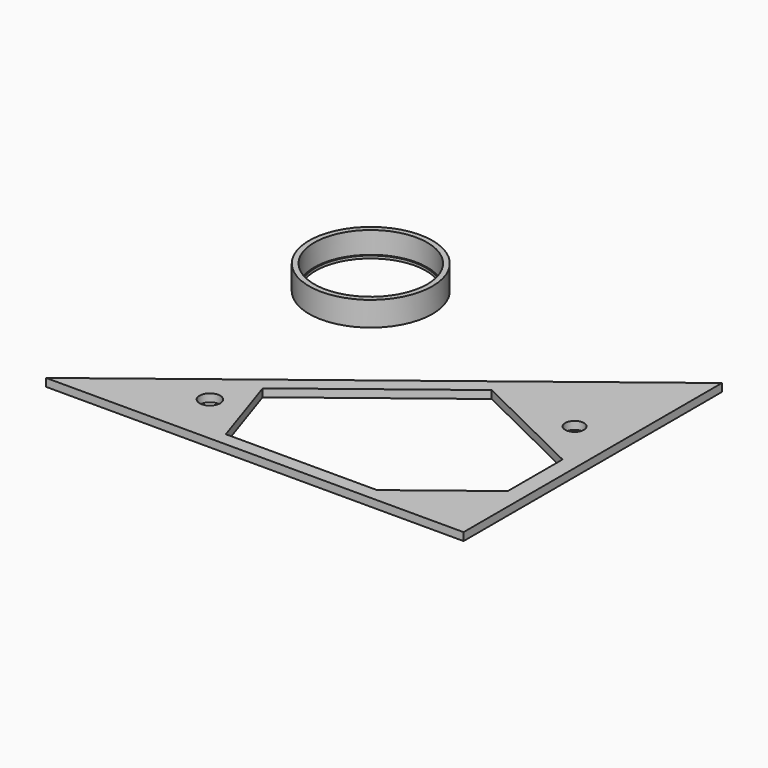
from build123d import *

# Parameters (mm, degrees)
F0_R     = 21.5
F0_R_2   = 21
F1_DEPTH = 0.9906
F0_R_3   = 23.5
F2_DEPTH = 9.3
F0_R_4   = 3.9359733783
F0_R_5   = 3.563457785
F4_DEPTH = 3


with BuildPart() as f1:
    # F0 (on Top) → F1 (new body)
    with BuildSketch(Plane.XY):
        Circle(F0_R)
        Circle(F0_R_2, mode=Mode.SUBTRACT)
    extrude(amount=-F1_DEPTH)


with BuildPart() as f2:
    # F0 (on Top) → F2 (new body)
    with BuildSketch(Plane.XY):
        Circle(F0_R_3)
        Circle(F0_R, mode=Mode.SUBTRACT)
    extrude(amount=F2_DEPTH)


with BuildPart() as f2_1:
    # F3: moved
    add(f2.part.moved(Location((0, 0, 50))))


with BuildPart() as f1_1:
    # F3: moved
    add(f1.part.moved(Location((0, 0, 50))))


with BuildPart() as f4:
    # F0 (on Top) → F4 (new body)
    with BuildSketch(Plane.XY):
        Polygon((-44.3169956439, 7.2307157935), (-96.8730529751, -33.4236321713), (-30.8095384389, -33.4236321713), (18.4857230633, -33.4236321713), (62.0573038339, -33.4236321713), (62.0573038339, 89.5157654163), (5.7974897305, 45.9964038977), align=None)
        with Locations((-50.1917134651, -13.824595864)):
            Circle(F0_R_4, mode=Mode.SUBTRACT)
        Polygon((11.4478069001, 43.2261226511), (55.8109398069, 21.4754223909), (55.8109398069, -4.5509878672), (25.0480355705, -28.347404051), (-32.4961214867, -28.347404051), (-42.4294854754, 1.5497431269), align=None, mode=Mode.SUBTRACT)
        with Locations((45.3090365281, 40.3400082302)):
            Circle(F0_R_5, mode=Mode.SUBTRACT)
    extrude(amount=F4_DEPTH)


with BuildPart() as f1_2:
    # F5: moved
    add(f1_1.part.moved(Location((0, 0, 1))))


solid = Compound([f2_1.part, f4.part, f1_2.part])
